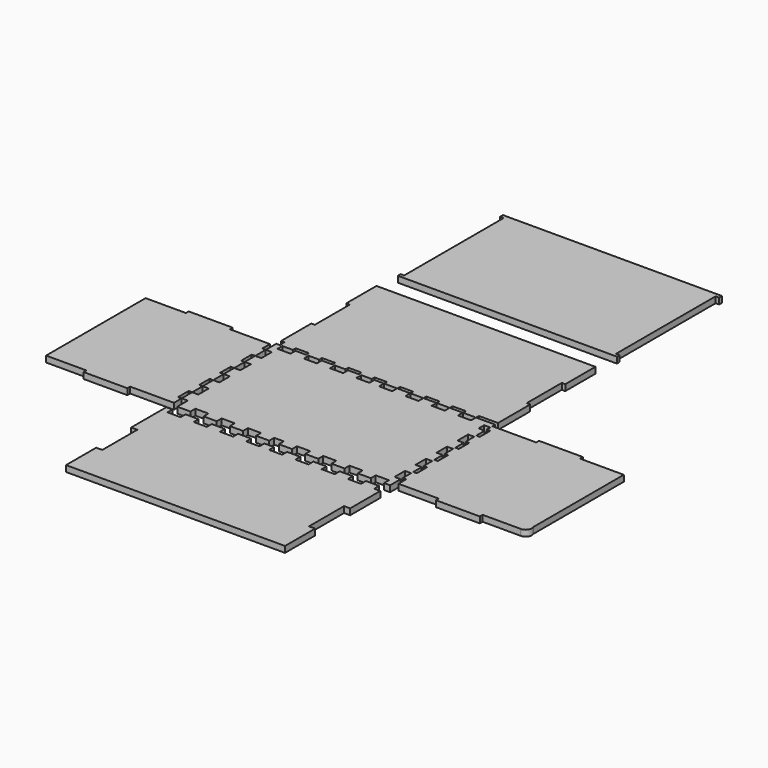
from build123d import *

# Parameters (mm, degrees)
F4_DEPTH  = 7
F6_DEPTH  = 7
F8_DEPTH  = 7
F9_DEPTH  = 7
F10_DEPTH = 7
F11_DEPTH = 7


with BuildPart() as f4:
    # F0 (on Top) → F4 (new body)
    with BuildSketch(Plane.XY):
        Polygon((-116.108715, -61.617049), (-116.108715, -76.617049), (-101.108715, -76.617049), (-101.108715, -69.617049), (-86.108715, -69.617049), (-86.108715, -76.617049), (-71.108715, -76.617049), (-71.108715, -69.617049), (-56.108715, -69.617049), (-56.108715, -76.617049), (-41.108715, -76.617049), (-41.108715, -69.617049), (-26.108715, -69.617049), (-26.108715, -76.617049), (-11.108715, -76.617049), (-11.108715, -69.617049), (-0.108715, -69.617049), (-0.108715, -76.617049), (14.891285, -76.617049), (14.891285, -69.617049), (29.891285, -69.617049), (29.891285, -76.617049), (44.891285, -76.617049), (44.891285, -69.617049), (59.891285, -69.617049), (59.891285, -76.617049), (74.891285, -76.617049), (74.891285, -69.617049), (89.891285, -69.617049), (89.891285, -76.617049), (104.891285, -76.617049), (104.891285, -69.617049), (119.891285, -69.617049), (119.891285, -76.617049), (126.891285, -76.617049), (126.891285, -61.617049), (119.891285, -61.617049), (119.891285, -46.617049), (126.891285, -46.617049), (126.891285, -31.617049), (119.891285, -31.617049), (119.891285, -16.617049), (126.891285, -16.617049), (126.891285, -1.617049), (119.891285, -1.617049), (119.891285, 13.382951), (126.891285, 13.382951), (126.891285, 28.382951), (119.891285, 28.382951), (119.891285, 43.382951), (126.891285, 43.382951), (126.891285, 58.382951), (119.891285, 58.382951), (119.891285, 66.382951), (126.891285, 66.382951), (126.891285, 73.382951), (104.891285, 73.382951), (104.891285, 66.382951), (89.891285, 66.382951), (89.891285, 73.382951), (74.891285, 73.382951), (74.891285, 66.382951), (59.891285, 66.382951), (59.891285, 73.382951), (44.891285, 73.382951), (44.891285, 66.382951), (29.891285, 66.382951), (29.891285, 73.382951), (14.891285, 73.382951), (14.891285, 66.382951), (-0.108715, 66.382951), (-0.108715, 73.382951), (-11.108715, 73.382951), (-11.108715, 66.382951), (-26.108715, 66.382951), (-26.108715, 73.382951), (-41.108715, 73.382951), (-41.108715, 66.382951), (-56.108715, 66.382951), (-56.108715, 73.382951), (-71.108715, 73.382951), (-71.108715, 66.382951), (-86.108715, 66.382951), (-86.108715, 73.382951), (-101.108715, 73.382951), (-101.108715, 66.382951), (-116.108715, 66.382951), (-116.108715, 73.382951), (-123.108715, 73.382951), (-123.108715, 58.382951), (-116.108715, 58.382951), (-116.108715, 43.382951), (-123.108715, 43.382951), (-123.108715, 28.382951), (-116.108715, 28.382951), (-116.108715, 13.382951), (-123.108715, 13.382951), (-123.108715, -1.617049), (-116.108715, -1.617049), (-116.108715, -16.617049), (-123.108715, -16.617049), (-123.108715, -31.617049), (-116.108715, -31.617049), (-116.108715, -46.617049), (-123.108715, -46.617049), (-123.108715, -61.617049), align=None)
    extrude(amount=F4_DEPTH)


with BuildPart() as f6:
    # F5 (on Top) → F6 (new body)
    with BuildSketch(Plane.XY):
        Polygon((-119.108715, 80.382951), (-119.108715, 73.382951), (-104.108715, 73.382951), (-104.108715, 77.382951), (-89.108715, 77.382951), (-89.108715, 73.382951), (-74.108715, 73.382951), (-74.108715, 77.382951), (-59.108715, 77.382951), (-59.108715, 73.382951), (-44.108715, 73.382951), (-44.108715, 77.382951), (-29.108715, 77.382951), (-29.108715, 73.382951), (-14.108715, 73.382951), (-14.108715, 77.382951), (0, 77.382951), (0, 73.382951), (15, 73.382951), (15, 77.382951), (30, 77.382951), (30, 73.382951), (45, 73.382951), (45, 77.382951), (60, 77.382951), (60, 73.382951), (75, 73.382951), (75, 77.382951), (90, 77.382951), (90, 73.382951), (105, 73.382951), (105, 77.382951), (126.891285, 77.382951), (126.891285, 123.382951), (122.891285, 123.382951), (122.891285, 173.382951), (126.891285, 173.382951), (126.891285, 216.382951), (-123.108715, 216.382951), (-123.108715, 173.382951), (-119.108715, 173.382951), (-119.108715, 123.382951), (-123.108715, 123.382951), (-123.108715, 80.382951), align=None)
    extrude(amount=F6_DEPTH)


with BuildPart() as f8:
    # F2 (on Top) → F8 (new body)
    with BuildSketch(Plane.XY):
        Polygon((-123.108715, 58.382951), (-127.108715, 58.382951), (-127.108715, 69.382951), (-173.108715, 69.382951), (-173.108715, 73.382951), (-223.108715, 73.382951), (-223.108715, 69.382951), (-269.108715, 69.382951), (-269.108715, -72.617049), (-223.108715, -72.617049), (-223.108715, -76.617049), (-173.108715, -76.617049), (-173.108715, -72.617049), (-123.108715, -72.617049), (-123.108715, -61.61705), (-127.108715, -61.61705), (-127.108715, -46.61705), (-123.108715, -46.61705), (-123.108715, -31.61705), (-127.108715, -31.61705), (-127.108715, -16.61705), (-123.108715, -16.61705), (-123.108715, -1.61705), (-127.108715, -1.61705), (-127.108715, 13.38295), (-123.108715, 13.38295), (-123.108715, 28.38295), (-127.108715, 28.38295), (-127.108715, 43.38295), (-123.108715, 43.38295), align=None)
    extrude(amount=F8_DEPTH)


with BuildPart() as f9:
    # F1 (on Top) → F9 (new body)
    with BuildSketch(Plane.XY):
        with BuildLine():
            Line((176.891285, 69.382951), (126.891285, 69.382951))
            Line((126.891285, 69.382951), (126.891285, 61.382951))
            Line((126.891285, 61.382951), (130.891285, 61.382951))
            Line((130.891285, 61.382951), (130.891285, 46.38295))
            Line((130.891285, 46.38295), (126.891285, 46.38295))
            Line((126.891285, 46.38295), (126.891285, 31.38295))
            Line((126.891285, 31.38295), (130.891285, 31.38295))
            Line((130.891285, 31.38295), (130.891285, 16.38295))
            Line((130.891285, 16.38295), (126.891285, 16.38295))
            Line((126.891285, 16.38295), (126.891285, 1.38295))
            Line((126.891285, 1.38295), (130.891285, 1.38295))
            Line((130.891285, 1.38295), (130.891285, -13.61705))
            Line((130.891285, -13.61705), (126.891285, -13.61705))
            Line((126.891285, -13.61705), (126.891285, -28.61705))
            Line((126.891285, -28.61705), (130.891285, -28.61705))
            Line((130.891285, -28.61705), (130.891285, -43.61705))
            Line((130.891285, -43.61705), (126.891285, -43.61705))
            Line((126.891285, -43.61705), (126.891285, -58.61705))
            Line((126.891285, -58.61705), (130.891285, -58.61705))
            Line((130.891285, -58.61705), (130.891285, -69.61705))
            Line((130.891285, -69.61705), (176.891285, -69.61705))
            Line((176.891285, -69.61705), (176.891285, -73.61705))
            Line((176.891285, -73.61705), (226.891285, -73.61705))
            Line((226.891285, -73.61705), (226.891285, -69.61705))
            Line((226.891285, -69.61705), (269.891285, -69.61705))
            ThreePointArc((269.891285, -69.61705), (276.317723, -66.665557), (276.891285, -59.61705))
            Line((276.891285, -59.61705), (276.891285, 69.382951))
            Line((276.891285, 69.382951), (226.891285, 69.382951))
            Line((226.891285, 69.382951), (226.891285, 73.382951))
            Line((226.891285, 73.382951), (176.891285, 73.382951))
            Line((176.891285, 73.382951), (176.891285, 69.382951))
        make_face()
    extrude(amount=F9_DEPTH)


with BuildPart() as f10:
    # F7 (on Top) → F10 (new body)
    with BuildSketch(Plane.XY):
        Polygon((-120.463796, 247.630543), (-120.463796, 243.630543), (129.536204, 243.630543), (129.536204, 247.630543), (125.536204, 247.630543), (125.536204, 389.630543), (129.536204, 389.630543), (129.536204, 393.630543), (-120.463796, 393.630543), (-120.463796, 389.630543), (-116.463796, 389.630543), (-116.463796, 247.630543), align=None)
    extrude(amount=F10_DEPTH)


with BuildPart() as f11:
    # F3 (on Top) → F11 (new body)
    with BuildSketch(Plane.XY):
        Polygon((-86.108715, -83.617049), (-101.108715, -83.617049), (-101.108715, -90.617049), (-116.108715, -90.617049), (-116.108715, -83.617049), (-123.108715, -83.617049), (-123.108715, -133.617049), (-116.108715, -133.617049), (-116.108715, -183.617049), (-123.108715, -183.617049), (-123.108715, -226.617049), (126.891285, -226.617049), (126.891285, -183.617049), (119.891285, -183.617049), (119.891285, -133.617049), (126.891285, -133.617049), (126.891285, -90.617049), (119.891285, -90.617049), (119.891285, -83.617049), (104.891285, -83.617049), (104.891285, -90.617049), (89.891285, -90.617049), (89.891285, -83.617049), (74.891285, -83.617049), (74.891285, -90.617049), (59.891285, -90.617049), (59.891285, -83.617049), (44.891285, -83.617049), (44.891285, -90.617049), (29.891285, -90.617049), (29.891285, -83.617049), (14.891285, -83.617049), (14.891285, -90.617049), (-0.108715, -90.617049), (-0.108715, -83.617049), (-11.108715, -83.617049), (-11.108715, -90.617049), (-26.108715, -90.617049), (-26.108715, -83.617049), (-41.108715, -83.617049), (-41.108715, -90.617049), (-56.108715, -90.617049), (-56.108715, -83.617049), (-71.108715, -83.617049), (-71.108715, -90.617049), (-86.108715, -90.617049), align=None)
    extrude(amount=F11_DEPTH)


solid = Compound([f4.part, f6.part, f8.part, f9.part, f10.part, f11.part])
